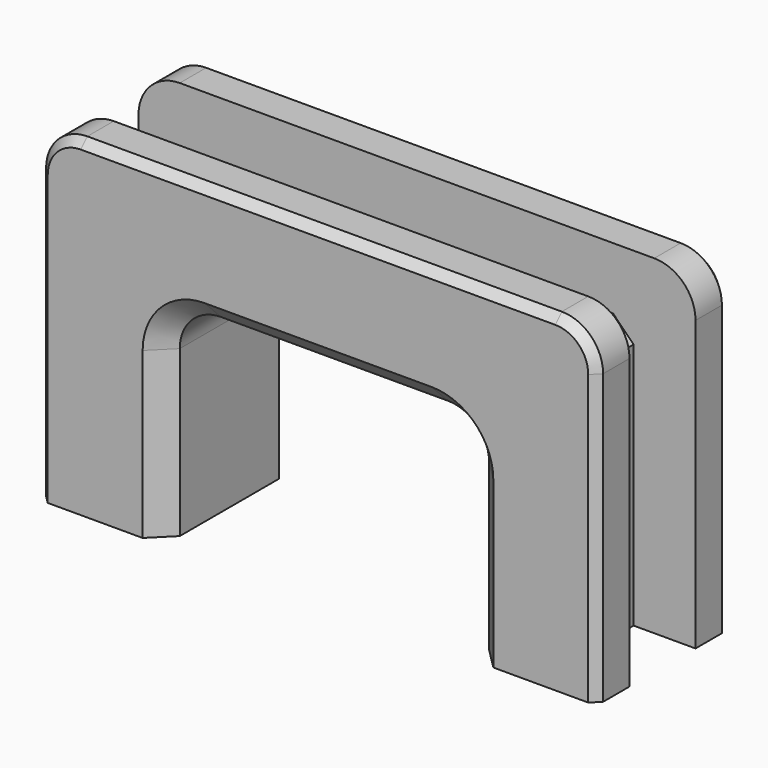
from build123d import *

# Parameters (mm, degrees)
BOX004_W        = 21
BOX004_H        = 4
BOX004_DEPTH    = 10
BOX003_W        = 15
BOX003_H        = 4
BOX003_DEPTH    = 19
BOX_W           = 15
BOX_H           = 4
BOX_DEPTH       = 19
BOX002_W        = 15
BOX002_H        = 8
BOX002_DEPTH    = 10
BOX001_W        = 27
BOX001_H        = 8
BOX001_DEPTH    = 16
FILLET_R        = 2
FILLET001_R     = 2
CHAMFER_SIZE    = 1
CHAMFER001_SIZE = 1
CHAMFER002_SIZE = 0.4


with BuildPart() as cube004:
    # Box004 → Box004 (new body)
    with BuildSketch(Plane(origin=(-3, 2, 13), x_dir=(1, 0, 0), z_dir=(0, 0, 1))):
        with Locations((10.5, 2)):
            Rectangle(BOX004_W, BOX004_H)
    extrude(amount=BOX004_DEPTH)


with BuildPart() as cube003:
    # Box003 → Box003 (new body)
    with BuildSketch(Plane(origin=(18, 2, 0), x_dir=(1, 0, 0), z_dir=(0, 0, 1))):
        with Locations((7.5, 2)):
            Rectangle(BOX003_W, BOX003_H)
    extrude(amount=BOX003_DEPTH)


with BuildPart() as fusion:
    # Box → Box (new body)
    with BuildSketch(Plane(origin=(-18, 2, 0), x_dir=(1, 0, 0), z_dir=(0, 0, 1))):
        with Locations((7.5, 2)):
            Rectangle(BOX_W, BOX_H)
    extrude(amount=BOX_DEPTH)

    # Fusion: union Cube004, Cube003
    add(cube004.part)
    add(cube003.part)


with BuildPart() as cube002:
    # Box002 → Box002 (new body)
    with BuildSketch(Plane.XY):
        with Locations((7.5, 4)):
            Rectangle(BOX002_W, BOX002_H)
    extrude(amount=BOX002_DEPTH)


with BuildPart() as f_10x15_hole:
    # Box001 → Box001 (new body)
    with BuildSketch(Plane(origin=(-6, 0, 0), x_dir=(1, 0, 0), z_dir=(0, 0, 1))):
        with Locations((13.5, 4)):
            Rectangle(BOX001_W, BOX001_H)
    extrude(amount=BOX001_DEPTH)

    # Cut: cut Cube002
    add(cube002.part, mode=Mode.SUBTRACT)

    # Cut001: cut Fusion
    add(fusion.part, mode=Mode.SUBTRACT)

    # Fillet
    fillet_edges = [f_10x15_hole.edges().sort_by_distance(p)[0] for p in [
        (0, 4, 10),
        (15, 4, 10),
    ]]
    fillet(fillet_edges, radius=FILLET_R)

    # Fillet001
    fillet001_edges = [f_10x15_hole.edges().sort_by_distance(p)[0] for p in [
        (-6, 1, 16),
        (21, 1, 16),
        (-6, 7, 16),
        (21, 7, 16),
    ]]
    fillet(fillet001_edges, radius=FILLET001_R)

    # Chamfer
    chamfer_edges = [f_10x15_hole.edges().sort_by_distance(p)[0] for p in [
        (-3, 4, 13),
        (18, 4, 13),
    ]]
    chamfer(chamfer_edges, length=CHAMFER_SIZE)

    # Chamfer001
    chamfer001_edges = [f_10x15_hole.edges().sort_by_distance(p)[0] for p in [
        (15, 8, 4),
        (14.414214, 8, 9.414214),
        (7.5, 8, 10),
        (0.585786, 8, 9.414214),
        (0, 8, 4),
        (0, 0, 4),
        (15, 0, 4),
        (14.414214, 0, 9.414214),
        (7.5, 0, 10),
        (0.585786, 0, 9.414214),
    ]]
    chamfer(chamfer001_edges, length=CHAMFER001_SIZE)

    # Chamfer002
    chamfer002_edges = [f_10x15_hole.edges().sort_by_distance(p)[0] for p in [
        (-6, 8, 7),
        (-5.414214, 8, 15.414214),
        (7.5, 8, 16),
        (20.414214, 8, 15.414214),
        (21, 8, 7),
        (-6, 0, 7),
        (-5.414214, 0, 15.414214),
        (7.5, 0, 16),
        (20.414214, 0, 15.414214),
        (21, 0, 7),
    ]]
    chamfer(chamfer002_edges, length=CHAMFER002_SIZE)


solid = f_10x15_hole.part
